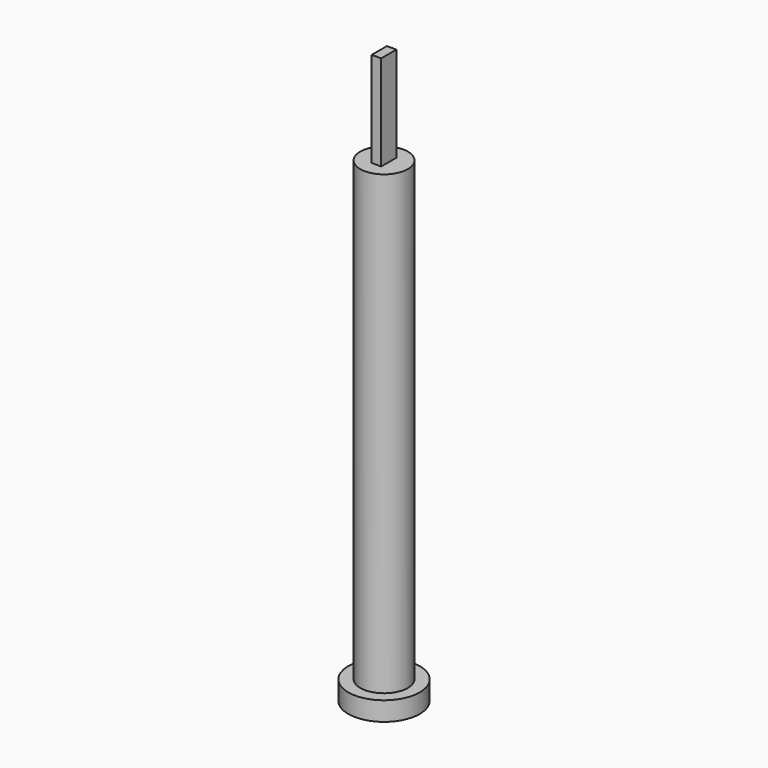
from build123d import *

# Parameters (mm, degrees)
F0_R     = 7.5
F1_DEPTH = 4
F2_R     = 5
F3_DEPTH = 100
F4_W     = 2
F4_H     = 4
F5_DEPTH = 20


with BuildPart() as f1:
    # F0 (on Top) → F1 (new body)
    with BuildSketch(Plane.XY):
        Circle(F0_R)
    extrude(amount=F1_DEPTH)

    # F2 (on Top) → F3 (join)
    with BuildSketch(Plane.XY):
        Circle(F2_R)
    extrude(amount=F3_DEPTH)

    # F4 (on face) → F5 (join)
    with BuildSketch(Plane.XY.offset(100)):
        Rectangle(F4_W, F4_H)
    extrude(amount=F5_DEPTH)


solid = f1.part
